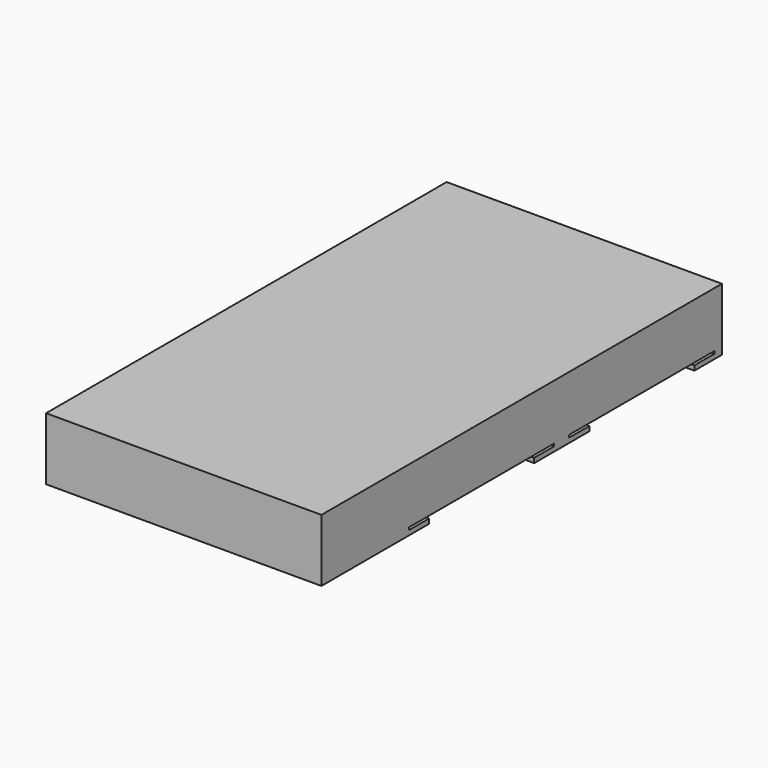
from build123d import *

# Parameters (mm, degrees)
F0_W     = 88
F0_H     = 160
F1_DEPTH = 20
F3_DEPTH = 86


with BuildPart() as f1:
    # F0 (on Top) → F1 (new body)
    with BuildSketch(Plane.XY):
        with Locations((44, 80)):
            Rectangle(F0_W, F0_H)
    extrude(amount=F1_DEPTH)

    # F2 (on face) → F3 (cut)
    with BuildSketch(Plane.YZ.offset(88)):
        Polygon((107, 0), (149, 0), (149, 1.5), (157, 1.5), (157, 2.3), (99, 2.3), (99, 1.5), (107, 1.5), align=None)
        Polygon((93, 1.5), (93, 2.3), (35, 2.3), (35, 1.5), (43, 1.5), (43, 0), (85, 0), (85, 1.5), align=None)
    extrude(amount=-F3_DEPTH, mode=Mode.SUBTRACT)


solid = f1.part
